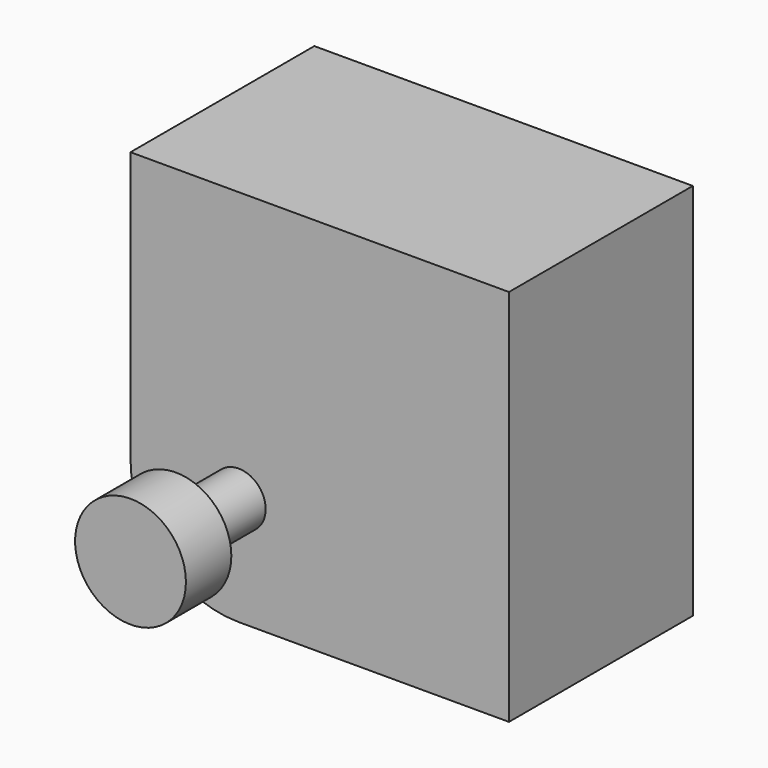
from build123d import *

# Parameters (mm, degrees)
PAD006_DEPTH = 2.1
SKETCH008_R  = 1
PAD008_DEPTH = 14.3
SKETCH006_R  = 2.05
PAD009_DEPTH = 2.1
PAD007_DEPTH = 8.5


with BuildPart() as part:
    # Sketch007 → Pad006 (new body)
    with BuildSketch(Plane.XZ.offset(-2.5)):
        Polygon((59.154701, -2), (60.309401, 0), (59.154701, 2), (56.845299, 2), (55.690599, 0), (56.845299, -2), align=None)
    extrude(amount=PAD006_DEPTH)

    # Sketch008 (on Face8 of Pad006) → Pad008 (join)
    with BuildSketch(Plane.XZ.offset(-0.4)):
        with Locations((58, 0)):
            Circle(SKETCH008_R)
    extrude(amount=PAD008_DEPTH)

    # Sketch006 (on Face10 of Pad008) → Pad009 (join)
    with BuildSketch(Plane.XZ.offset(13.9)):
        with Locations((58, 0)):
            Circle(SKETCH006_R)
    extrude(amount=PAD009_DEPTH)

    # Sketch009 → Pad007 (join)
    with BuildSketch(Plane.XZ.offset(2.5)):
        with BuildLine():
            Line((54, 10), (68, 10))
            Line((68, 10), (68, -4))
            Line((68, -4), (58, -4))
            ThreePointArc((54, 0), (55.171573, -2.828427), (58, -4))
            Line((54, 0), (54, 10))
        make_face()
    extrude(amount=PAD007_DEPTH)


solid = part.part
